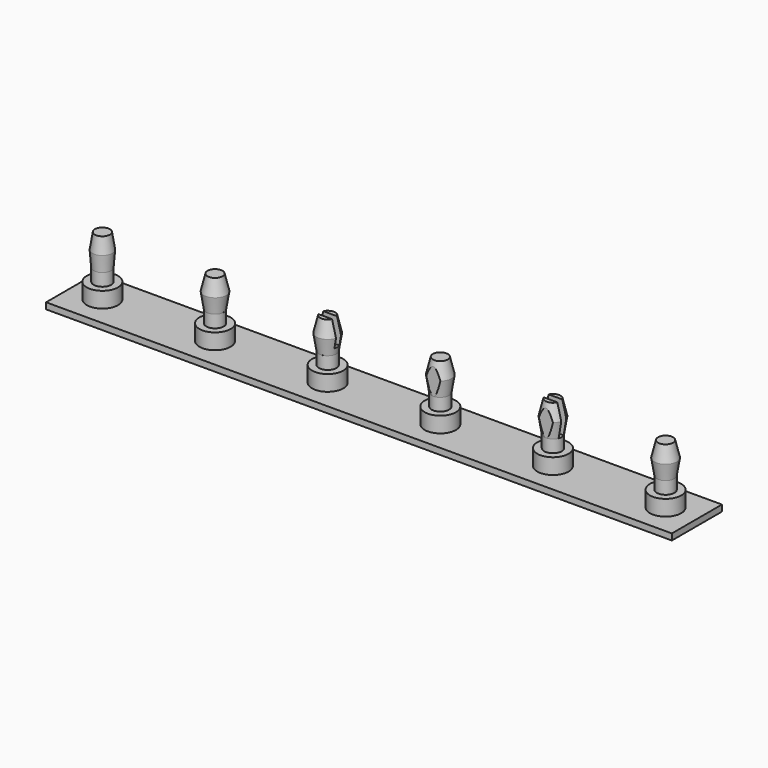
from build123d import *

# Parameters (mm, degrees)
SKETCH_W               = 100
SKETCH_H               = 10
PAD_DEPTH              = 1
SKETCH001_R            = 2.5
PAD001_DEPTH           = 2.5
LINEARPATTERN_COUNT    = 6
LINEARPATTERN_PITCH    = 18
SKETCH002_R            = 1.4
PAD002_DEPTH           = 2
LINEARPATTERN001_COUNT = 6
LINEARPATTERN001_PITCH = 18
SKETCH009_W            = 8.008663
SKETCH009_H            = 3
SKETCH009_W_2          = 8.175985
POCKET_DEPTH           = 5
SKETCH010_W            = 13.773382
SKETCH010_H            = 1
POCKET001_DEPTH        = 4
SKETCH011_W            = 14.597542
SKETCH011_H            = 1
SKETCH011_W_2          = 17.849039
SKETCH011_H_2          = 8.6
SKETCH011_W_3          = 18.97339
POCKET002_DEPTH        = 4.99


with BuildPart() as linearpattern001:
    # Sketch → Pad (new body)
    with BuildSketch(Plane.XY):
        Rectangle(SKETCH_W, SKETCH_H)
    extrude(amount=PAD_DEPTH)

    # Sketch001 → Pad001 (new body)
    with BuildSketch(Plane.XY.offset(1)):
        with Locations((-45, 0)):
            Circle(SKETCH001_R)
    pad001 = extrude(amount=PAD001_DEPTH)

    # LinearPattern: Pad001 ×6
    with Locations(*[(i * LINEARPATTERN_PITCH, 0, 0) for i in range(1, LINEARPATTERN_COUNT)]):
        add(pad001)

    # Sketch002 → Pad002 (new body)
    with BuildSketch(Plane.XY.offset(3.5)):
        with Locations((-45, 0)):
            Circle(SKETCH002_R)
    pad002 = extrude(amount=PAD002_DEPTH)

    # LinearPattern001: Pad002 ×6
    with Locations(*[(i * LINEARPATTERN001_PITCH, 0, 0) for i in range(1, LINEARPATTERN001_COUNT)]):
        add(pad002)


with BuildPart() as revolution:
    # Sketch003 → Revolution (revolve)
    with BuildSketch(Plane.XZ):
        Polygon((-45, 5.49), (-45, 10.49), (-46.2, 10.49), (-46.6, 8.002), (-46.4, 5.49), align=None)
    revolve(axis=Axis((-45, 0, 14.994768), (0, 0, 1)))


with BuildPart() as revolution001:
    # Sketch004 → Revolution001 (revolve)
    with BuildSketch(Plane.XZ):
        Polygon((-27, 5.49), (-27, 10.49), (-28.2, 10.49), (-28.8, 8.01), (-28.4, 5.49), align=None)
    revolve(axis=Axis((-27, 0, 14.994768), (0, 0, 1)))


with BuildPart() as revolution005:
    # Sketch008 → Revolution005 (revolve)
    with BuildSketch(Plane.XZ):
        Polygon((45, 5.49), (45, 10.49), (43.8, 10.49), (43.2, 8.01), (43.6, 5.49), align=None)
    revolve(axis=Axis((45, 0, 14.647463), (0, 0, 1)))


with BuildPart() as pocket:
    # Sketch006 → Revolution003 (revolve)
    with BuildSketch(Plane.XZ):
        Polygon((9, 5.49), (9, 10.49), (7.8, 10.49), (7.2, 8.01), (7.6, 5.49), align=None)
    revolve(axis=Axis((9, 0, 14.647463), (0, 0, 1)))

    # Sketch009 → Pocket (cut)
    with BuildSketch(Plane(origin=(0, 0, 10.49), x_dir=(-1, 0, 0), z_dir=(0, 0, 1))):
        with Locations((-8.981206, 2.9)):
            Rectangle(SKETCH009_W, SKETCH009_H)
        with Locations((-9.036382, -2.9)):
            Rectangle(SKETCH009_W_2, SKETCH009_H)
    extrude(amount=-POCKET_DEPTH, mode=Mode.SUBTRACT)


with BuildPart() as pocket001:
    # Sketch005 → Revolution002 (revolve)
    with BuildSketch(Plane.XZ):
        Polygon((-9, 5.49), (-9, 10.49), (-10.2, 10.49), (-10.8, 8.01), (-10.4, 5.49), align=None)
    revolve(axis=Axis((-9, 0, 14.994768), (0, 0, 1)))

    # Sketch010 → Pocket001 (cut)
    with BuildSketch(Plane(origin=(0, 0, 10.49), x_dir=(-1, 0, 0), z_dir=(0, 0, 1))):
        with Locations((9.674008, 0)):
            Rectangle(SKETCH010_W, SKETCH010_H)
    extrude(amount=-POCKET001_DEPTH, mode=Mode.SUBTRACT)


with BuildPart() as pocket002:
    # Sketch007 → Revolution004 (revolve)
    with BuildSketch(Plane.XZ):
        Polygon((27, 5.49), (27, 10.49), (25.8, 10.49), (25.2, 8.01), (25.6, 5.49), align=None)
    revolve(axis=Axis((27, 0, 14.647463), (0, 0, 1)))

    # Sketch011 → Pocket002 (cut)
    with BuildSketch(Plane(origin=(0, 0, 10.49), x_dir=(-1, 0, 0), z_dir=(0, 0, 1))):
        with Locations((-27.298771, 0)):
            Rectangle(SKETCH011_W, SKETCH011_H)
        with Locations((-26.797369, -5.7)):
            Rectangle(SKETCH011_W_2, SKETCH011_H_2)
        with Locations((-26.038436, 5.7)):
            Rectangle(SKETCH011_W_3, SKETCH011_H_2)
    extrude(amount=-POCKET002_DEPTH, mode=Mode.SUBTRACT)


solid = Compound([linearpattern001.part, revolution.part, revolution001.part, revolution005.part, pocket.part, pocket001.part, pocket002.part])
